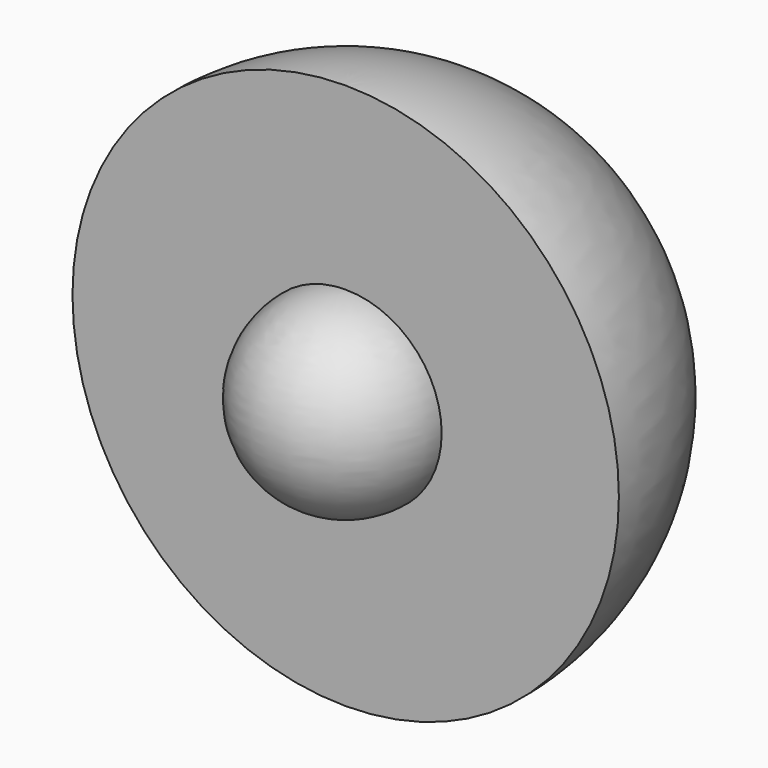
from build123d import *

# Parameters (mm, degrees)
F1_ANGLE = 180


with BuildPart() as f1:
    # F0 (on Front) → F1 (revolve)
    with BuildSketch(Plane.XZ):
        with BuildLine():
            Line((0, 52.510295), (0, 0))
            ThreePointArc((0, 0), (26.255148, 26.255148), (0, 52.510295))
        make_face()
    revolve(axis=Axis((0, 0, 26.255148), (0, 0, 1)), revolution_arc=F1_ANGLE)


with BuildPart() as f3:
    # F2 (on face) → F3 (revolve)
    with BuildSketch(Plane.XZ):
        with BuildLine():
            ThreePointArc((0, 16.938806), (9.222736, 26.08576), (0, 35.232715))
            Line((0, 35.232715), (0, 16.938806))
        make_face()
    revolve(axis=Axis((0, 0, 26.08576), (0, 0, -1)))


solid = Compound([f1.part, f3.part])
